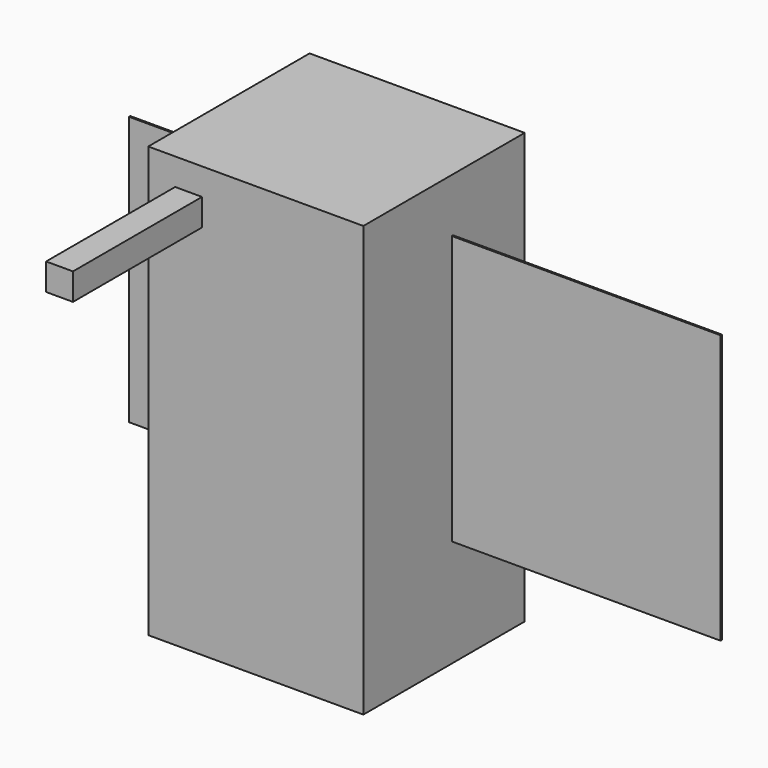
from build123d import *

# Parameters (mm, degrees)
F0_W          = 20.32
F0_H          = 40.64
F1_DEPTH      = 19.05
F2_W          = 0.1524
F2_H          = 25.4
F3_DEPTH      = 25.4
F3_DEPTH_BACK = 30.48
F4_W          = 2.54
F4_H          = 2.54
F5_DEPTH      = 15.24
F5_DEPTH_BACK = 20.32


with BuildPart() as f1:
    # F0 (on Front) → F1 (new body)
    with BuildSketch(Plane.XZ):
        with Locations((10.16, 20.32)):
            Rectangle(F0_W, F0_H)
    extrude(amount=F1_DEPTH)

    # F2 (on face) → F3 (join, two sides)
    with BuildSketch(Plane.YZ.offset(20.32)) as f3_sk:
        with Locations((-8.5344, 22.86)):
            Rectangle(F2_W, F2_H)
    extrude(amount=F3_DEPTH)
    extrude(f3_sk.sketch, amount=-F3_DEPTH_BACK)

    # F4 (on face) → F5 (join, two sides)
    with BuildSketch(Plane.XZ.offset(19.05)) as f5_sk:
        with Locations((3.81, 36.83)):
            Rectangle(F4_W, F4_H)
    extrude(amount=F5_DEPTH)
    extrude(f5_sk.sketch, amount=-F5_DEPTH_BACK)


solid = f1.part
